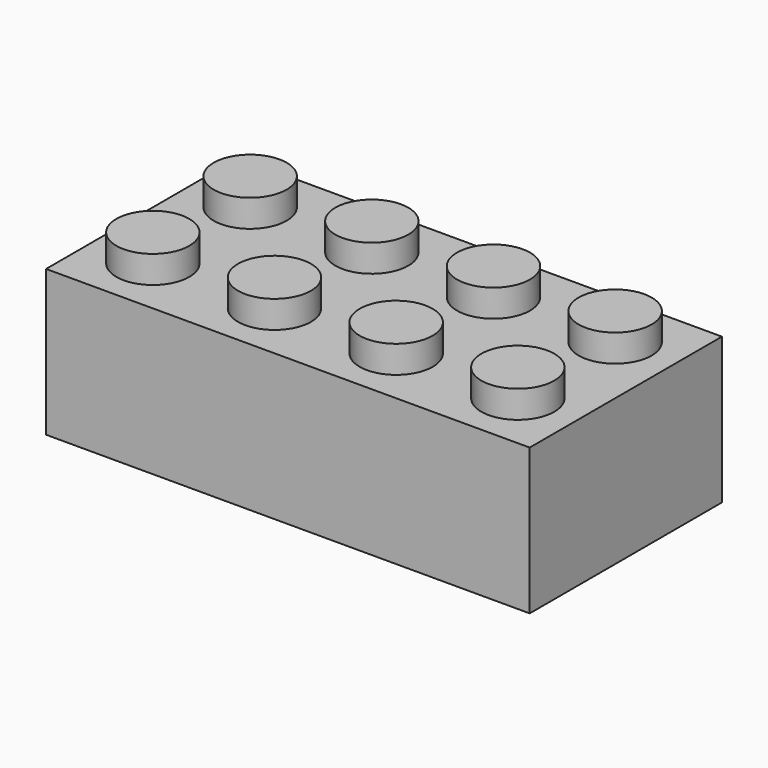
from build123d import *

# Parameters (mm, degrees)
F0_W     = 31.8
F0_H     = 15.8
F1_DEPTH = 9.6
F2_R     = 2.4
F3_DEPTH = 1.8
F4_R     = 1.3
F5_DEPTH = 8.7
F6_DEPTH = 8.5
F7_R     = 3.25685
F7_R_2   = 2.4
F8_DEPTH = 8.5


with BuildPart() as f1:
    # F0 (on Top) → F1 (new body)
    with BuildSketch(Plane.XY):
        Rectangle(F0_W, F0_H)
    extrude(amount=F1_DEPTH)

    # F2 (on face) → F3 (join)
    with BuildSketch(Plane.XY.offset(9.6)):
        with Locations((-12, 4)):
            Circle(F2_R)
        with Locations((-4, 4)):
            Circle(F2_R)
        with Locations((4, 4)):
            Circle(F2_R)
        with Locations((12, 4)):
            Circle(F2_R)
        with Locations((12, -4)):
            Circle(F2_R)
        with Locations((4, -4)):
            Circle(F2_R)
        with Locations((-4, -4)):
            Circle(F2_R)
        with Locations((-12, -4)):
            Circle(F2_R)
    extrude(amount=F3_DEPTH)

    # F4 (on face) → F5 (cut)
    with BuildSketch(Plane(origin=(0, 0, 0), x_dir=(1, 0, 0), z_dir=(0, 0, -1))):
        with Locations((-12, 4)):
            Circle(F4_R)
        with Locations((-4, 4)):
            Circle(F4_R)
        with Locations((4, 4)):
            Circle(F4_R)
        with Locations((12, 4)):
            Circle(F4_R)
        with Locations((12, -4)):
            Circle(F4_R)
        with Locations((4, -4)):
            Circle(F4_R)
        with Locations((-4, -4)):
            Circle(F4_R)
        with Locations((-12, -4)):
            Circle(F4_R)
    extrude(amount=-F5_DEPTH, mode=Mode.SUBTRACT)

    # F4 (on face) → F6 (cut)
    with BuildSketch(Plane(origin=(0, 0, 0), x_dir=(1, 0, 0), z_dir=(0, 0, -1))):
        Polygon((-12.3, 6.7), (-14.7, 6.7), (-14.7, 4.3), (-14.4, 4.3), (-14.4, 3.7), (-14.7, 3.7), (-14.7, -3.7), (-14.4, -3.7), (-14.4, -4.3), (-14.7, -4.3), (-14.7, -6.7), (-12.3, -6.7), (-12.3, -6.4), (-11.7, -6.4), (-11.7, -6.7), (-4.3, -6.7), (-4.3, -6.4), (-3.7, -6.4), (-3.7, -6.7), (3.7, -6.7), (3.7, -6.4), (4.3, -6.4), (4.3, -6.7), (11.7, -6.7), (11.7, -6.4), (12.3, -6.4), (12.3, -6.7), (14.7, -6.7), (14.7, -4.3), (14.4, -4.3), (14.4, -3.7), (14.7, -3.7), (14.7, 3.7), (14.4, 3.7), (14.4, 4.3), (14.7, 4.3), (14.7, 6.7), (12.3, 6.7), (12.3, 6.4), (11.7, 6.4), (11.7, 6.7), (4.3, 6.7), (4.3, 6.4), (3.7, 6.4), (3.7, 6.7), (-3.7, 6.7), (-3.7, 6.4), (-4.3, 6.4), (-4.3, 6.7), (-11.7, 6.7), (-11.7, 6.4), (-12.3, 6.4), align=None)
        with Locations((-12, -4)):
            Circle(F4_R, mode=Mode.SUBTRACT)
        with Locations((-4, -4)):
            Circle(F4_R, mode=Mode.SUBTRACT)
        with Locations((4, -4)):
            Circle(F4_R, mode=Mode.SUBTRACT)
        with Locations((12, -4)):
            Circle(F4_R, mode=Mode.SUBTRACT)
        with Locations((-12, 4)):
            Circle(F4_R, mode=Mode.SUBTRACT)
        with Locations((-4, 4)):
            Circle(F4_R, mode=Mode.SUBTRACT)
        with Locations((4, 4)):
            Circle(F4_R, mode=Mode.SUBTRACT)
        with Locations((12, 4)):
            Circle(F4_R, mode=Mode.SUBTRACT)
    extrude(amount=-F6_DEPTH, mode=Mode.SUBTRACT)

    # F7 (on face) → F8 (join, through all)
    with BuildSketch(Plane(origin=(0, 0, 8.5), x_dir=(1, 0, 0), z_dir=(0, 0, -1))):
        Circle(F7_R)
        Circle(F7_R_2, mode=Mode.SUBTRACT)
        with Locations((8, 0)):
            Circle(F7_R)
        with Locations((8, 0)):
            Circle(F7_R_2, mode=Mode.SUBTRACT)
        with Locations((-8, 0)):
            Circle(F7_R)
        with Locations((-8, 0)):
            Circle(F7_R_2, mode=Mode.SUBTRACT)
    extrude(amount=F8_DEPTH)


solid = f1.part
